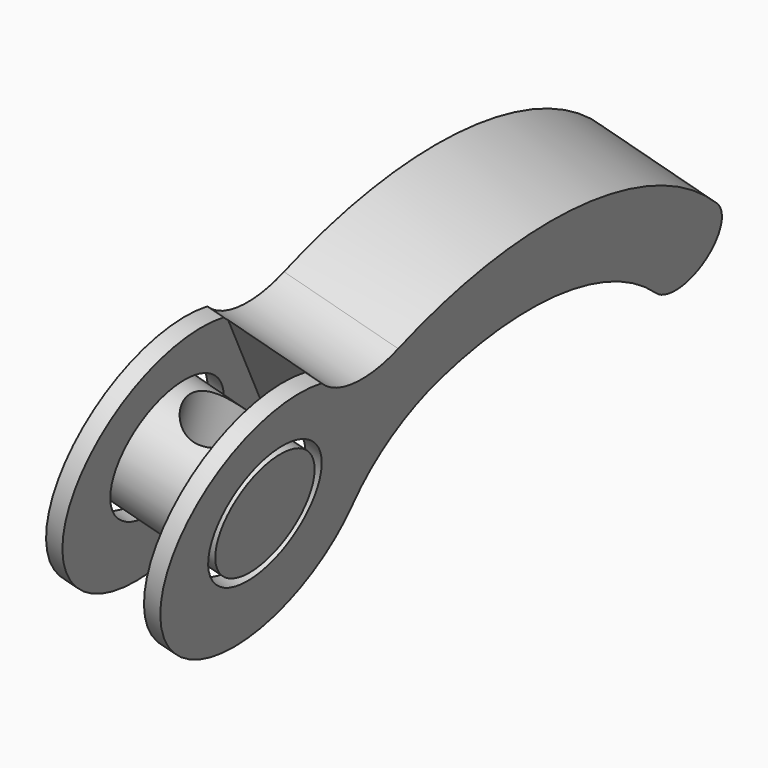
from build123d import *

# Parameters (mm, degrees)
BOX020_W                  = 32
BOX020_H                  = 30
BOX020_DEPTH              = 10
BOX020_PLACEMENT_ANGLE    = 34
CYLINDER017_R             = 8
CYLINDER017_DEPTH         = 43
EXTRUDE_DEPTH             = 14
CYLINDER019_R             = 4
CYLINDER019_DEPTH         = 50
CYLINDER019_PITCH_ANGLE   = 90
CYLINDER018_R             = 7
CYLINDER018_DEPTH         = 14
FUSION015_PLACEMENT_ANGLE = 105


with BuildPart() as cube020:
    # Box020 → Box020 (new body)
    with BuildSketch(Plane.XY):
        with Locations((16, 15)):
            Rectangle(BOX020_W, BOX020_H)
    extrude(amount=BOX020_DEPTH)


with BuildPart() as cube020_1:
    # Box020 placement: moved
    add(cube020.part.moved(Location((17, -28, 2))).rotate(Axis((17, -28, 2), (0, 0, 1)), BOX020_PLACEMENT_ANGLE))


with BuildPart() as cylindre017:
    # Cylinder017 → Cylinder017 (new body)
    with BuildSketch(Plane(origin=(19, -4, -10), x_dir=(1, 0, 0), z_dir=(0, 0, 1))):
        Circle(CYLINDER017_R)
    extrude(amount=CYLINDER017_DEPTH)


with BuildPart() as cut024:
    # DWire → Extrude (new body)
    with BuildSketch(Plane.XY):
        with BuildLine():
            ThreePointArc((6.804774, 11.781858), (1.564338, 37.143778), (12.218653, 60.748328))
            ThreePointArc((12.218653, 60.748328), (19.252667, 61.132115), (19.734448, 54.104132))
            ThreePointArc((19.734448, 54.104132), (12.291158, 38.071341), (14.337676, 20.513872))
            ThreePointArc((14.337676, 20.513872), (18.477184, 14.55832), (24.730126, 10.883428))
            ThreePointArc((24.730126, 10.883428), (27.456197, -16.437387), (5.463683, 0))
            ThreePointArc((5.463683, 0), (8.056952, 5.672071), (6.804774, 11.781858))
        make_face()
    extrude(amount=EXTRUDE_DEPTH)

    # Cut023: cut Cylindre017
    add(cylindre017.part, mode=Mode.SUBTRACT)

    # Cut024: cut Cube020
    add(cube020_1.part, mode=Mode.SUBTRACT)


with BuildPart() as cylindre019:
    # Cylinder019 → Cylinder019 (new body)
    with BuildSketch(Plane.XY):
        Circle(CYLINDER019_R)
    extrude(amount=CYLINDER019_DEPTH)


with BuildPart() as cylindre019_1:
    # Cylinder019 pitch: moved
    add(cylindre019.part.rotate(Axis((0, 0, 0), (0, 1, 0)), CYLINDER019_PITCH_ANGLE))


with BuildPart() as cylindre019_2:
    # Cylinder019 placement: moved
    add(cylindre019_1.part.moved(Location((0, -4, 7))))


with BuildPart() as fusion015:
    # Cylinder018 → Cylinder018 (new body)
    with BuildSketch(Plane(origin=(19, -4, 0), x_dir=(1, 0, 0), z_dir=(0, 0, 1))):
        Circle(CYLINDER018_R)
    extrude(amount=CYLINDER018_DEPTH)

    # Cut025: cut Cylindre019
    add(cylindre019_2.part, mode=Mode.SUBTRACT)

    # Fusion015: union Cut024
    add(cut024.part)


with BuildPart() as fusion015_1:
    # Fusion015 placement: moved
    add(fusion015.part.moved(Location((150, 42, -53.7))).rotate(Axis((150, 42, -53.7), (0, 1, 0)), FUSION015_PLACEMENT_ANGLE))


solid = fusion015_1.part
